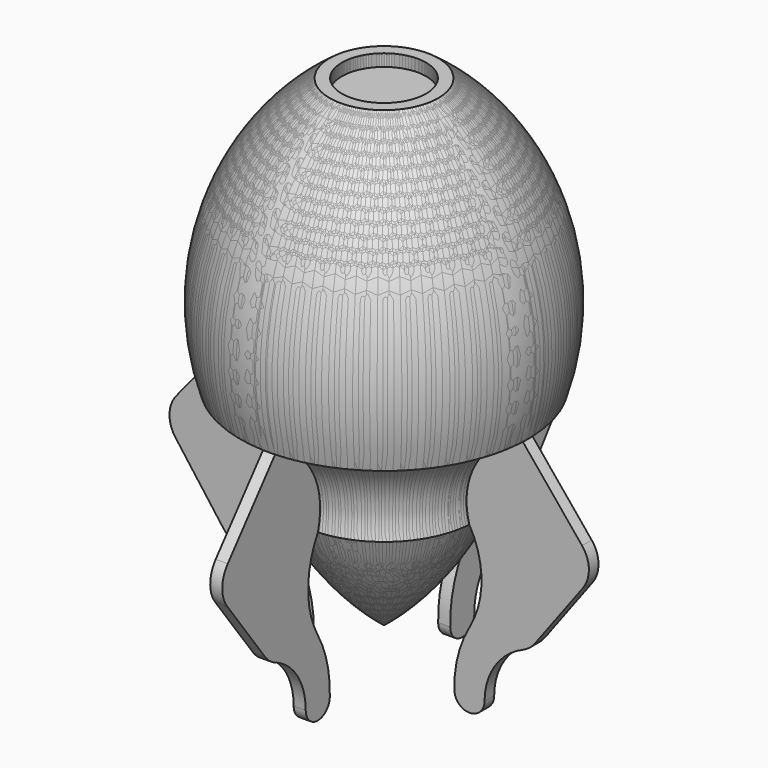
from build123d import *

# Parameters (mm, degrees)
F3_DEPTH = 1
F5_DEPTH = 1
F6_COUNT = 4


with BuildPart() as f1:
    # F0 (on Front) → F1 (revolve)
    with BuildSketch(Plane.XZ):
        with BuildLine():
            Line((0, 78), (0, 35))
            Line((0, 35), (23.8781369728, 35))
            ThreePointArc((23.8781369728, 35), (23.8216511077, 59.9408683434), (9, 80))
            Line((9, 80), (7, 80))
            Line((7, 80), (7, 78))
            Line((7, 78), (0, 78))
        make_face()
        with BuildLine():
            Line((0, 35), (0, 20))
            Line((0, 20), (15, 20))
            ThreePointArc((15, 20), (16.2110312428, 29.4105971201), (23.8781369728, 35))
            Line((23.8781369728, 35), (0, 35))
        make_face()
        with BuildLine():
            Line((0, 20), (0, 0))
            ThreePointArc((0, 0), (8.7701665379, 9.0473750966), (15, 20))
            Line((15, 20), (0, 20))
        make_face()
    revolve(axis=Axis((0, 0, 40), (0, 0, 1)))

    # F2 (on Front) → F3 (join, symmetric)
    with BuildSketch(Plane.XZ):
        Polygon((0, 20), (0, 35), (-23.8781369728, 35), (-15, 20), align=None)
    extrude(amount=F3_DEPTH, both=True)

    # F4 (on Front) → F5 (join, symmetric)
    with BuildSketch(Plane.XZ):
        with BuildLine():
            ThreePointArc((-17.5, -5), (-15, -7.5), (-12.5, -5))
            Line((-12.5, -5), (-15, -5))
            Line((-15, -5), (-15.0843401219, -5))
            Line((-15.0843401219, -5), (-17.5, -5))
        make_face()
        with BuildLine():
            Line((-15, -5), (-12.5, -5))
            ThreePointArc((-12.5, -5), (-13.0545749705, 0.1738562574), (-15, 5))
            Line((-15, 5), (-15, -5))
        make_face()
        with BuildLine():
            Line((-15.0843401219, -5), (-15, -5))
            Line((-15, -5), (-15, 5))
            Line((-15, 5), (-24.6164814765, 5))
            ThreePointArc((-24.6164814765, 5), (-24.2376727495, 4.7759487755), (-23.8406292539, 4.5860765412))
            ThreePointArc((-23.8406292539, 4.5860765412), (-19.2285809312, 0.7466608302), (-17.5, -5))
            Line((-17.5, -5), (-15.0843401219, -5))
        make_face()
        with BuildLine():
            Line((-24.6164814765, 5), (-15, 5))
            ThreePointArc((-15, 5), (-16.9929394592, 12.5044708057), (-14.9666295471, 20))
            add(Edge.make_bspline(
                [(-23.8571881263, 35), (-23.7248842804, 34.972041755), (-23.325965301, 34.8814298691), (-22.538267519, 34.6647057661), (-21.5304359619, 34.2563205892), (-20.5048017095, 33.7324510054), (-19.6522956702, 33.1751844099), (-18.953903564, 32.6334526347), (-18.2792939795, 32.0647283363), (-17.5582810702, 31.3505141748), (-16.8256140266, 30.4567267537), (-16.1485224237, 29.4382282077), (-15.6081348256, 28.4167724048), (-15.228560974, 27.4754794045), (-14.9663168914, 26.6330005857), (-14.7525151236, 25.8440296242), (-14.6069460331, 25.0380850638), (-14.5274915308, 24.2233534004), (-14.4757925382, 23.2047258052), (-14.4813081022, 22.0471133931), (-14.6951580064, 20.9107087456), (-14.8816366303, 20.2587985583), (-14.9666295471, 20)],
                knots=[0, 0, 0, 0, 0.4057923484, 1.2269901479, 2.4479903251, 3.6605173227, 4.6770120814, 5.4980604631, 6.3110619646, 7.3228918631, 8.5379442675, 9.7715146403, 10.9862456406, 11.998105993, 12.8114613148, 13.6323272329, 14.448892439, 15.2649969584, 16.0861173118, 17.5098183783, 18.723967319, 19.5418078899, 19.5418078899, 19.5418078899, 19.5418078899], degree=3))
            Line((-23.8571881263, 35), (-33.6886560678, 23.0223411448))
            ThreePointArc((-33.6886560678, 23.0223411448), (-34.8224707279, 19.9681712455), (-33.8341798715, 16.8638564031))
            Line((-33.8341798715, 16.8638564031), (-25.8944451042, 6.2011945003))
            ThreePointArc((-25.8944451042, 6.2011945003), (-25.3085431393, 5.5441250332), (-24.6164814765, 5))
        make_face()
    extrude(amount=F5_DEPTH, both=True)


with BuildPart() as f6_1:
    # F6: instance of F1
    add(f1.part.rotate(Axis((0, 0, 40), (0, 0, 1)), 1 * 360 / F6_COUNT))


with BuildPart() as f6_2:
    # F6: instance of F1
    add(f1.part.rotate(Axis((0, 0, 40), (0, 0, 1)), 2 * 360 / F6_COUNT))


with BuildPart() as f6_3:
    # F6: instance of F1
    add(f1.part.rotate(Axis((0, 0, 40), (0, 0, 1)), 3 * 360 / F6_COUNT))


solid = Compound([f1.part, f6_1.part, f6_2.part, f6_3.part])
